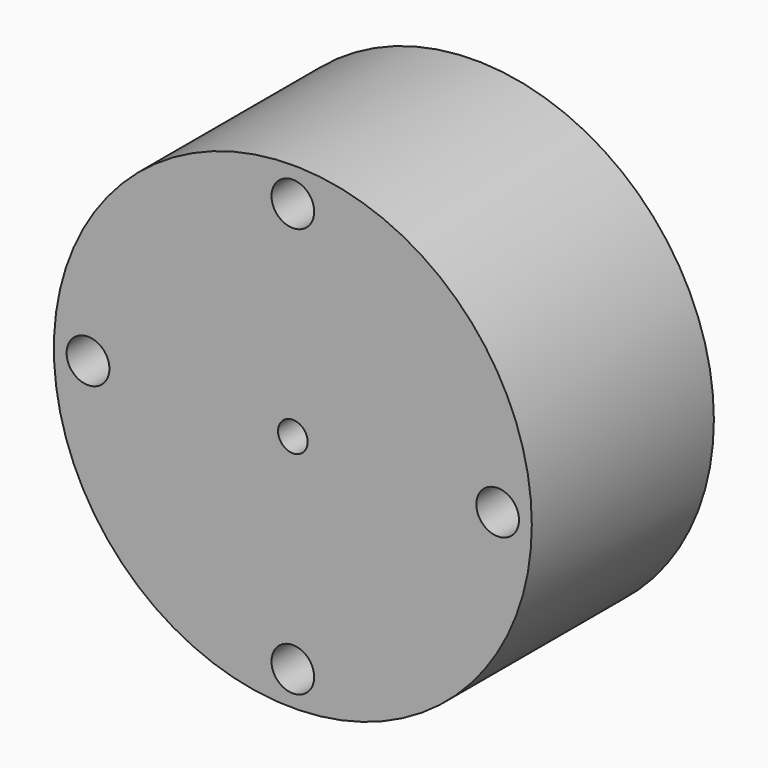
from build123d import *

# Parameters (mm, degrees)
F0_R     = 26.67
F0_R_2   = 2.38125
F0_R_3   = 2.3876
F0_R_4   = 1.651
F1_DEPTH = 25.4


with BuildPart() as f1:
    # F0 (on Front) → F1 (new body)
    with BuildSketch(Plane.XZ):
        Circle(F0_R)
        with Locations((0, -22.86)):
            Circle(F0_R_2, mode=Mode.SUBTRACT)
        with Locations((-22.86, 0)):
            Circle(F0_R_3, mode=Mode.SUBTRACT)
        Circle(F0_R_4, mode=Mode.SUBTRACT)
        with Locations((22.86, 0)):
            Circle(F0_R_2, mode=Mode.SUBTRACT)
        with Locations((0, 22.86)):
            Circle(F0_R_2, mode=Mode.SUBTRACT)
    extrude(amount=F1_DEPTH)


solid = f1.part
